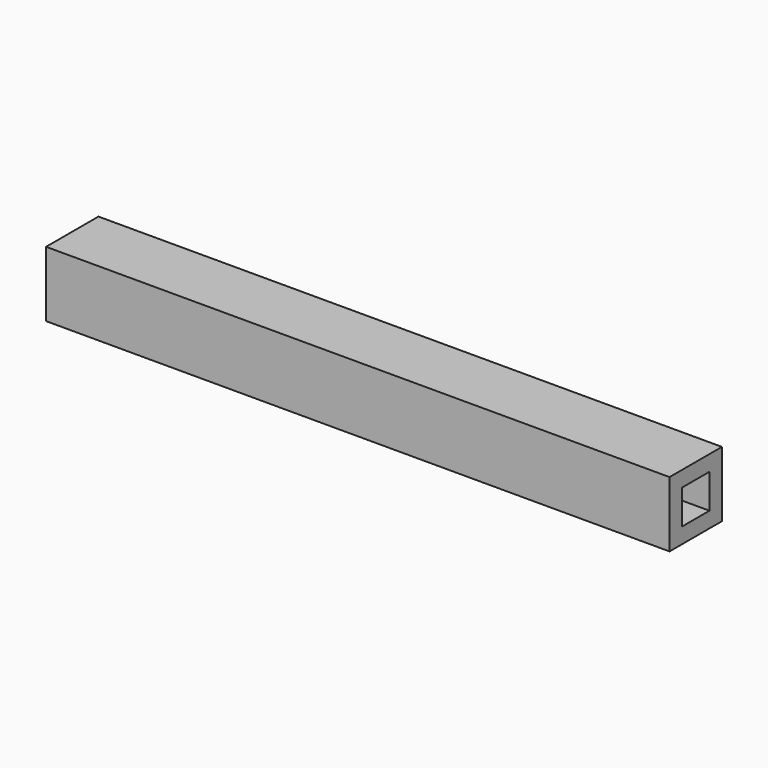
from build123d import *

# Parameters (mm, degrees)
F0_W     = 200
F0_H     = 21
F1_DEPTH = 21
F2_W     = 11
F2_H     = 11
F3_DEPTH = 200


with BuildPart() as f1:
    # F0 (on Front) → F1 (new body)
    with BuildSketch(Plane.XZ):
        with Locations((-100, 10.5)):
            Rectangle(F0_W, F0_H)
    extrude(amount=F1_DEPTH)

    # F2 (on Right) → F3 (cut)
    with BuildSketch(Plane.YZ):
        with Locations((-10.5, 10.5)):
            Rectangle(F2_W, F2_H)
    extrude(amount=-F3_DEPTH, mode=Mode.SUBTRACT)


solid = f1.part
